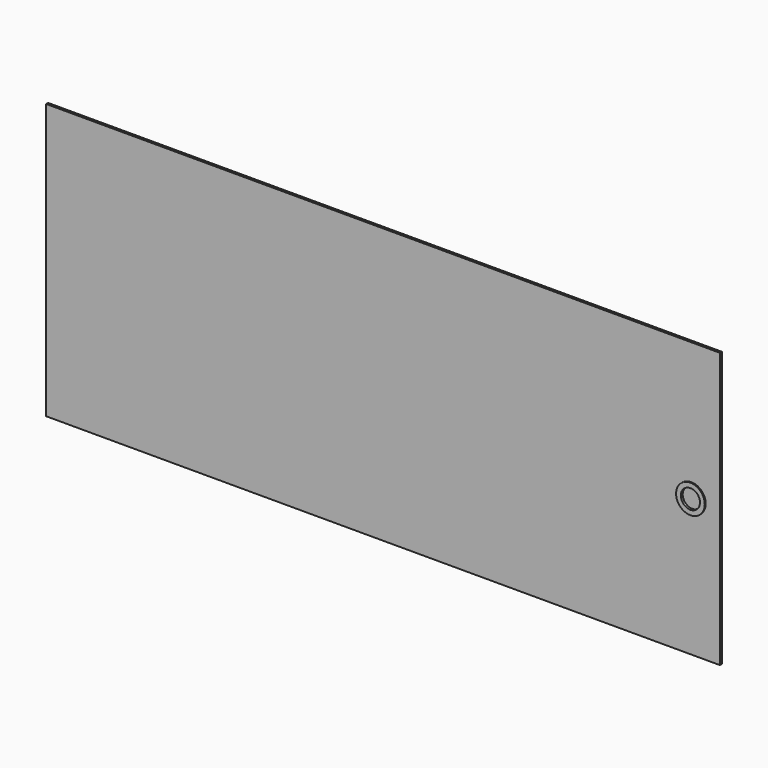
from build123d import *

# Parameters (mm, degrees)
F0_W     = 895.35
F0_H     = 365.252
F1_DEPTH = 3.175
F2_R     = 19.05
F2_R_2   = 12.7
F3_DEPTH = 1.524
F4_DEPTH = 1.524


with BuildPart() as f1:
    # F0 (on Front) → F1 (new body)
    with BuildSketch(Plane.XZ):
        Rectangle(F0_W, F0_H)
    extrude(amount=F1_DEPTH)

    # F2 (on face) → F3 (join)
    with BuildSketch(Plane.XZ.offset(3.175)):
        with Locations((409.575, 0)):
            Circle(F2_R)
        with Locations((409.575, 0)):
            Circle(F2_R_2, mode=Mode.SUBTRACT)
    extrude(amount=F3_DEPTH)

    # F4 (cut): a face of the model
    f4_faces = [f1.faces().sort_by_distance(p)[0] for p in [
        (409.575, -3.175, 0),
    ]]
    extrude(f4_faces, amount=-F4_DEPTH, mode=Mode.SUBTRACT)


solid = f1.part
